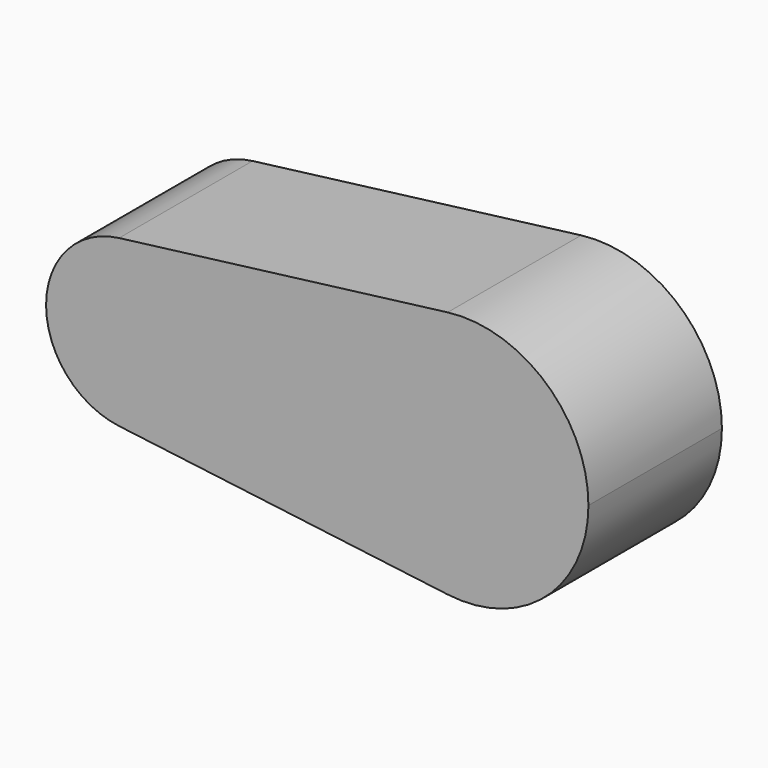
from build123d import *

# Parameters (mm, degrees)
F1_DEPTH = 25.4


with BuildPart() as f1:
    # F0 (on Front) → F1 (new body)
    with BuildSketch(Plane.XZ):
        with BuildLine():
            Line((2.8255982462, 0), (-16.2244017538, 0))
            ThreePointArc((-16.2244017538, 0), (-19.3402677902, -8.3327292148), (-27.1589491817, -12.5766918232))
            Line((-27.1589491817, -12.5766918232), (-27.0951960344, -13.0308550778))
            Line((-27.0951960344, -13.0308550778), (19.4943482462, -18.9005859284))
            ThreePointArc((19.4943482462, -18.9005859284), (7.5880982462, -12.6003906189), (2.8255982462, 0))
        make_face()
        with BuildLine():
            ThreePointArc((-27.1589491817, -12.5766918232), (-19.3402677902, -8.3327292148), (-16.2244017538, 0))
            Line((-16.2244017538, 0), (-28.9244017538, 0))
            Line((-28.9244017538, 0), (-27.1589491817, -12.5766918232))
        make_face()
        with BuildLine():
            Line((21.8755982462, 0), (2.8255982462, 0))
            ThreePointArc((2.8255982462, 0), (7.5880982462, -12.6003906189), (19.4943482462, -18.9005859284))
            Line((19.4943482462, -18.9005859284), (21.8755982462, 0))
        make_face()
        with BuildLine():
            ThreePointArc((40.9255982462, 0), (34.4759888651, 14.2875), (19.4943482462, 18.9005859284))
            Line((19.4943482462, 18.9005859284), (21.8755982462, 0))
            Line((21.8755982462, 0), (19.4943482462, -18.9005859284))
            ThreePointArc((19.4943482462, -18.9005859284), (34.4759888651, -14.2875), (40.9255982462, 0))
        make_face()
        with BuildLine():
            ThreePointArc((19.4943482462, 18.9005859284), (7.5880982462, 12.6003906189), (2.8255982462, 0))
            Line((2.8255982462, 0), (21.8755982462, 0))
            Line((21.8755982462, 0), (19.4943482462, 18.9005859284))
        make_face()
        with BuildLine():
            ThreePointArc((-30.5119017538, 12.6003906189), (-20.5241413412, 9.525), (-16.2244017538, 0))
            Line((-16.2244017538, 0), (2.8255982462, 0))
            ThreePointArc((2.8255982462, 0), (7.5880982462, 12.6003906189), (19.4943482462, 18.9005859284))
            Line((19.4943482462, 18.9005859284), (-30.5119017538, 12.6003906189))
        make_face()
        with BuildLine():
            ThreePointArc((-30.5119017538, -12.6003906189), (-28.834639915, -12.6996827839), (-27.1589491817, -12.5766918232))
            Line((-27.1589491817, -12.5766918232), (-28.9244017538, 0))
            Line((-28.9244017538, 0), (-30.5119017538, -12.6003906189))
        make_face()
        with BuildLine():
            Line((-28.9244017538, 0), (-16.2244017538, 0))
            ThreePointArc((-16.2244017538, 0), (-20.5241413412, 9.525), (-30.5119017538, 12.6003906189))
            Line((-30.5119017538, 12.6003906189), (-28.9244017538, 0))
        make_face()
        with BuildLine():
            Line((-28.9244017538, 0), (-30.5119017538, 12.6003906189))
            ThreePointArc((-30.5119017538, 12.6003906189), (-41.6244017538, 0), (-30.5119017538, -12.6003906189))
            Line((-30.5119017538, -12.6003906189), (-28.9244017538, 0))
        make_face()
        with BuildLine():
            Line((-27.0951960344, -13.0308550778), (-27.1589491817, -12.5766918232))
            ThreePointArc((-27.1589491817, -12.5766918232), (-28.834639915, -12.6996827839), (-30.5119017538, -12.6003906189))
            Line((-30.5119017538, -12.6003906189), (-27.0951960344, -13.0308550778))
        make_face()
    extrude(amount=F1_DEPTH)


solid = f1.part
